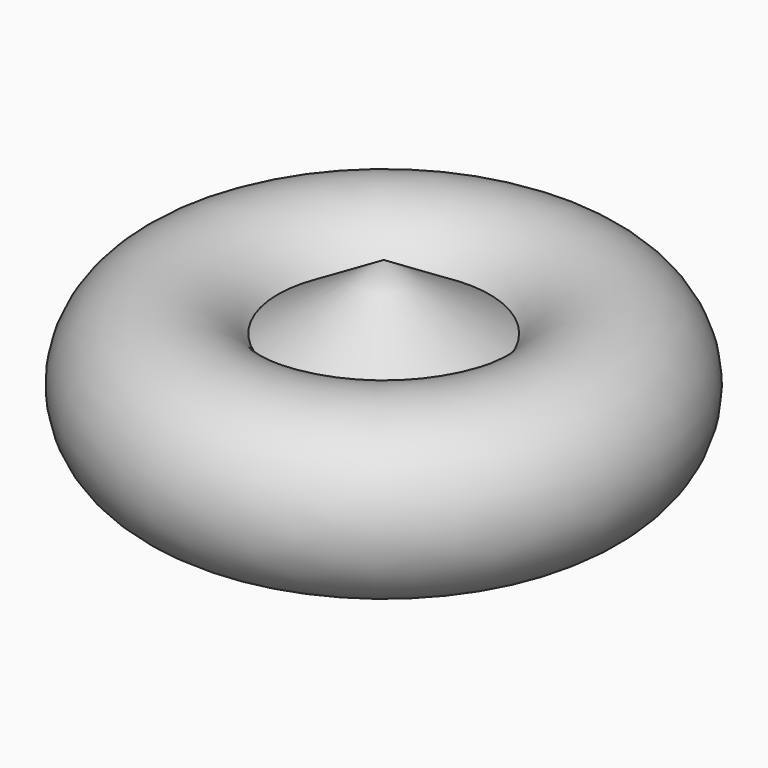
from build123d import *


with BuildPart() as f1:
    # F0 (on Front) → F1 (revolve)
    with BuildSketch(Plane.XZ):
        with BuildLine():
            ThreePointArc((-43.383004, 27.750421), (-41.509791, 23.461515), (-40.8694, 18.825402))
            ThreePointArc((-40.8694, 18.825402), (-41.163505, 15.667409), (-42.035703, 12.618033))
            Line((-42.035703, 12.618033), (-22.207962, 4.894501))
            Line((-22.207962, 4.894501), (-22.207962, 40.705279))
            Line((-22.207962, 40.705279), (-43.383004, 27.750421))
        make_face()
        with BuildLine():
            Line((-57.971172, 18.825402), (-43.383004, 27.750421))
            ThreePointArc((-43.383004, 27.750421), (-75.005561, 17.308758), (-42.035703, 12.618033))
            Line((-42.035703, 12.618033), (-57.971172, 18.825402))
        make_face()
        with BuildLine():
            ThreePointArc((-42.035703, 12.618033), (-41.163505, 15.667409), (-40.8694, 18.825402))
            ThreePointArc((-40.8694, 18.825402), (-41.509791, 23.461515), (-43.383004, 27.750421))
            Line((-43.383004, 27.750421), (-57.971172, 18.825402))
            Line((-57.971172, 18.825402), (-42.035703, 12.618033))
        make_face()
    revolve(axis=Axis((-22.207962, 0, 22.79989), (0, 0, 1)))


solid = f1.part
